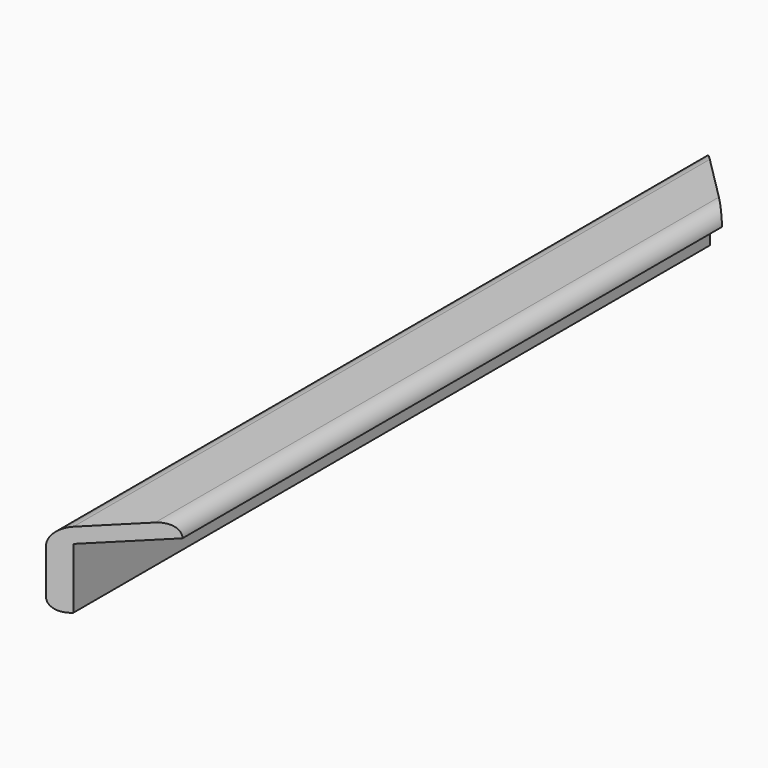
from build123d import *

# Parameters (mm, degrees)
F1_DEPTH = 346.075
F3_DEPTH = 31.751
F5_DEPTH = 38.1


with BuildPart() as f1:
    # F0 (on Front) → F1 (new body)
    with BuildSketch(Plane.XZ):
        with BuildLine():
            Line((0, -25.4), (0, 0))
            Line((0, 0), (25.4, 0))
            ThreePointArc((25.4, 0), (23.5401280605, 4.4901280605), (19.05, 6.35))
            Line((19.05, 6.35), (0, 6.35))
            ThreePointArc((0, 6.35), (-4.4901280605, 4.4901280605), (-6.35, 0))
            Line((-6.35, 0), (-6.35, -19.05))
            ThreePointArc((-6.35, -19.05), (-4.4901280605, -23.5401280605), (0, -25.4))
        make_face()
    extrude(amount=F1_DEPTH)

    # F2 (on face) → F3 (cut, through all)
    with BuildSketch(Plane.XY.offset(6.35)):
        Polygon((31.0680039475, -308.6569960525), (19.05, -320.675), (19.05, -346.075), (25.9507503361, -346.075), align=None)
        Polygon((19.05, -320.675), (0, -339.725), (0, -346.075), (19.05, -346.075), align=None)
        Polygon((0, -339.725), (-6.35, -346.075), (0, -346.075), align=None)
    extrude(amount=-F3_DEPTH, mode=Mode.SUBTRACT)

    # F4 (on face) → F5 (cut)
    with BuildSketch(Plane.XY.offset(6.35)):
        Polygon((25.4, 0), (-6.35, 0), (25.4, -31.75), align=None)
    extrude(amount=-F5_DEPTH, mode=Mode.SUBTRACT)


solid = f1.part
